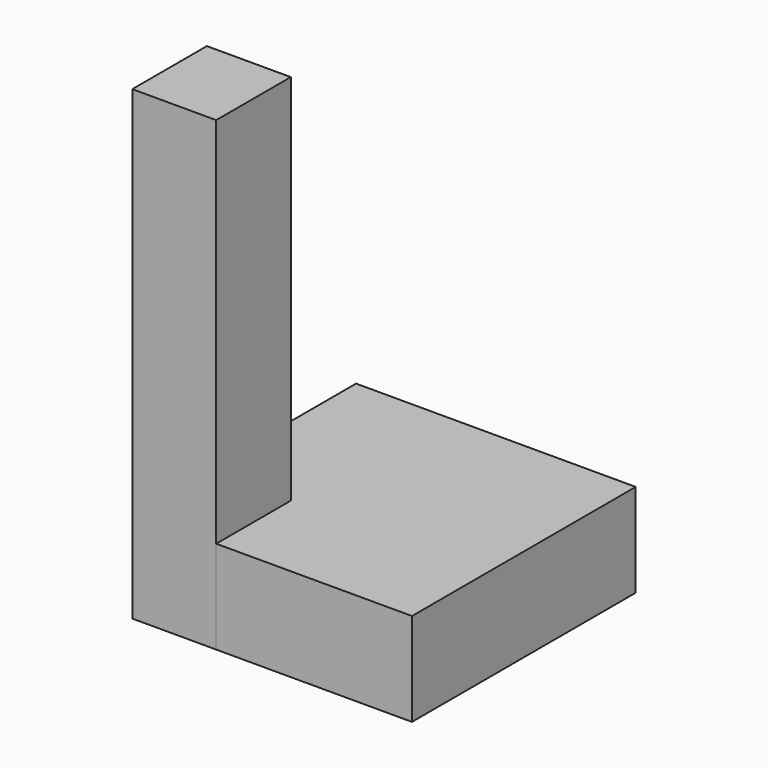
from build123d import *

# Parameters (mm, degrees)
BOX_W        = 30
BOX_H        = 30
BOX_DEPTH    = 10
BOX001_W     = 9
BOX001_H     = 10
BOX001_DEPTH = 50


with BuildPart() as cube:
    # Box → Box (new body)
    with BuildSketch(Plane.XY):
        with Locations((15, 15)):
            Rectangle(BOX_W, BOX_H)
    extrude(amount=BOX_DEPTH)


with BuildPart() as rectangle:
    # Box001 → Box001 (new body)
    with BuildSketch(Plane.XY):
        with Locations((4.5, 5)):
            Rectangle(BOX001_W, BOX001_H)
    extrude(amount=BOX001_DEPTH)


solid = Compound([cube.part, rectangle.part])
